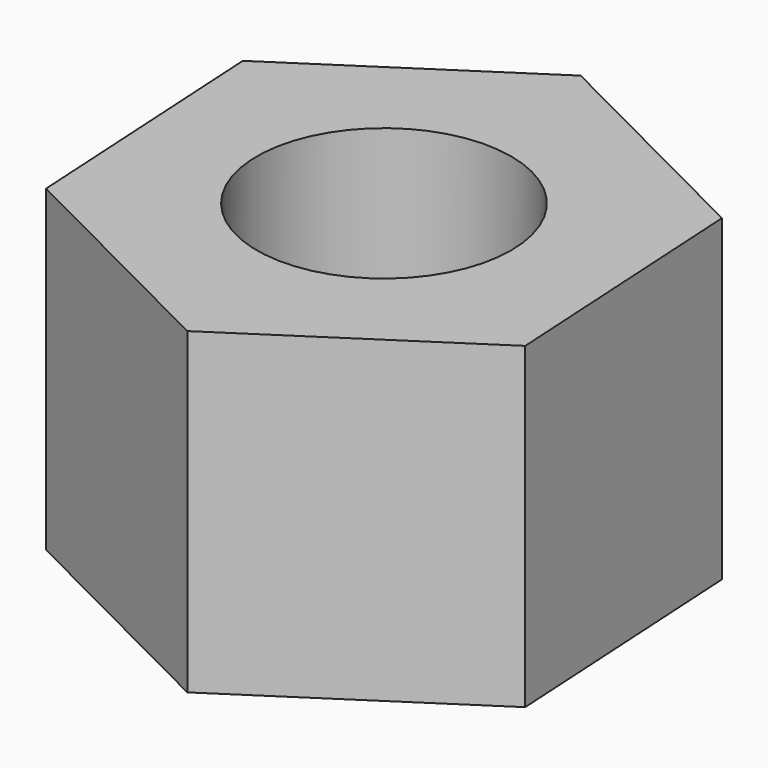
from build123d import *

# Parameters (mm, degrees)
F0_R     = 15.24
F1_DEPTH = 19.05


with BuildPart() as f1:
    # F0 (on Top) → F1 (new body, symmetric)
    with BuildSketch(Plane.XY):
        Polygon((-2.850014, -17.406549), (25.501119, -31.699055), (52.054359, -14.292506), (50.256466, 17.406549), (21.905332, 31.699055), (-4.647908, 14.292506), align=None)
        with Locations((23.703226, 0)):
            Circle(F0_R, mode=Mode.SUBTRACT)
    extrude(amount=F1_DEPTH, both=True)


solid = f1.part
